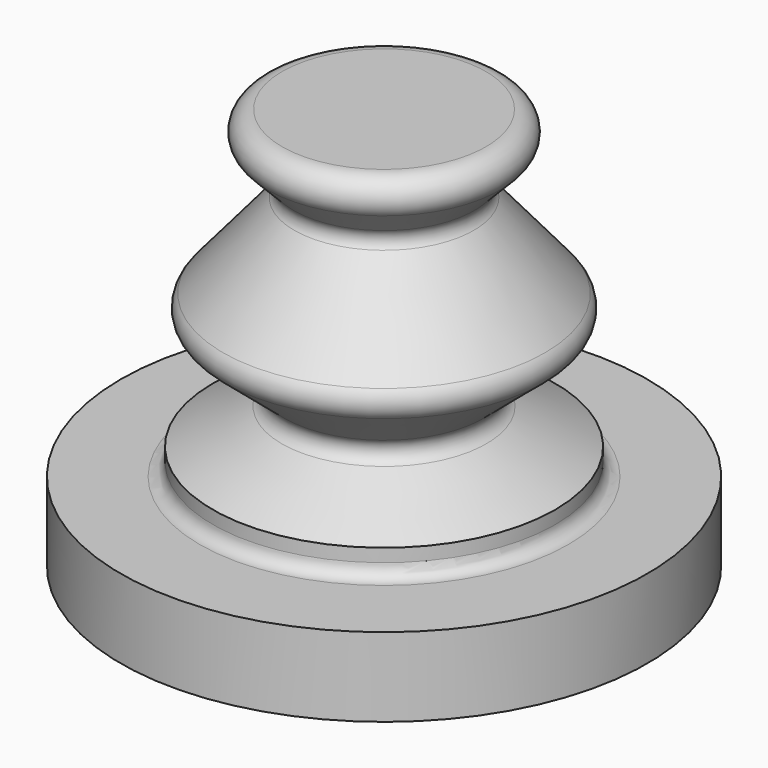
from build123d import *


with BuildPart() as f1:
    # F0 (on Front) → F1 (revolve)
    with BuildSketch(Plane.XZ):
        with BuildLine():
            Line((-40, 12), (-40, 0))
            Line((-40, 0), (-25, 0))
            Line((-25, 0), (-25, 14.178115))
            ThreePointArc((-25, 14.178115), (-24.70946, 15.216261), (-23.922252, 15.952784))
            Line((-23.922252, 15.952784), (-15.087521, 20.543979))
            ThreePointArc((-15.087521, 20.543979), (-13.489363, 22.873655), (-14.535331, 25.498051))
            Line((-14.535331, 25.498051), (-23.471955, 33.044705))
            ThreePointArc((-23.471955, 33.044705), (-24.174503, 34.404695), (-23.709621, 35.863129))
            Line((-23.709621, 35.863129), (-12.870843, 48.698232))
            ThreePointArc((-12.870843, 48.698232), (-12.382274, 49.507718), (-12.169905, 50.429059))
            Line((-12.169905, 50.429059), (-13.730949, 52.03004))
            ThreePointArc((-13.730949, 52.03004), (-13.164188, 50.705282), (-13.634865, 49.343421))
            Line((-13.634865, 49.343421), (-24.473644, 36.508319))
            ThreePointArc((-24.473644, 36.508319), (-25.170966, 34.320667), (-24.117144, 32.280683))
            Line((-24.117144, 32.280683), (-15.180521, 24.734028))
            ThreePointArc((-15.180521, 24.734028), (-14.483209, 22.984431), (-15.548647, 21.431314))
            Line((-15.548647, 21.431314), (-26, 16))
            Line((-26, 16), (-26, 14))
            ThreePointArc((-26, 14), (-26.585786, 12.585786), (-28, 12))
            Line((-28, 12), (-40, 12))
        make_face()
        with BuildLine():
            Line((-13.730949, 52.03004), (-12.169905, 50.429059))
            ThreePointArc((-12.169905, 50.429059), (-12.347098, 51.668787), (-13.014969, 52.72816))
            ThreePointArc((-13.014969, 52.72816), (-13.425897, 54.90142), (-11.583008, 56.124401))
            Line((-11.583008, 56.124401), (0, 56.124401))
            Line((0, 56.124401), (0, 61.124401))
            Line((0, 61.124401), (-15.483226, 61.124401))
            ThreePointArc((-15.483226, 61.124401), (-18.24756, 59.28993), (-17.631168, 56.03004))
            Line((-17.631168, 56.03004), (-13.730949, 52.03004))
        make_face()
    revolve(axis=Axis((0, 0, 4.206827), (0, 0, -1)))


solid = f1.part
